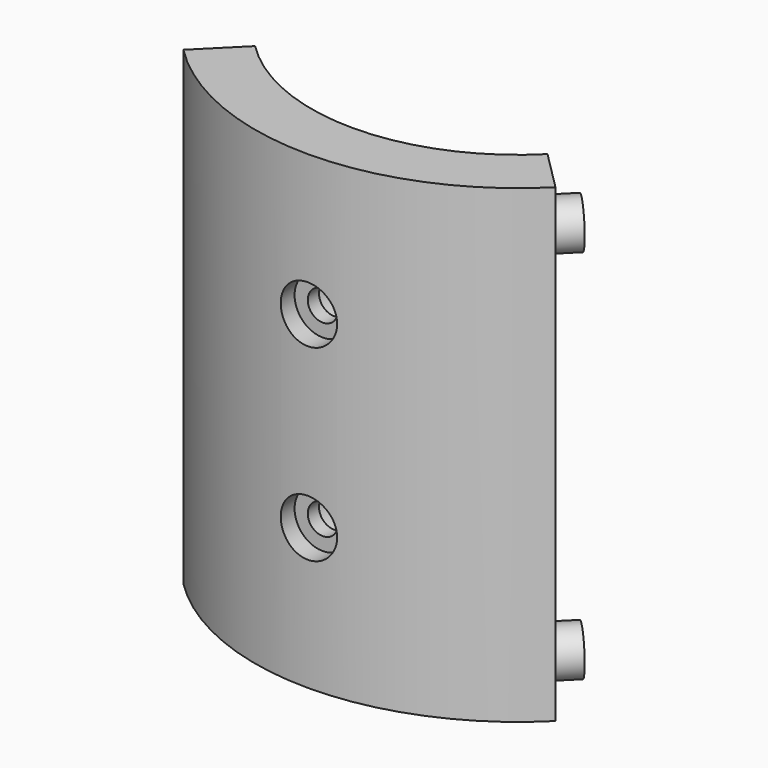
from build123d import *

# Parameters (mm, degrees)
PAD_DEPTH            = 50
SKETCH001_R          = 2.475
PAD001_DEPTH         = 2.5
SKETCH002_R          = 2.475
PAD002_DEPTH         = 2.5
SKETCH003_R          = 3
POCKET_DEPTH         = 24.5
SKETCH004_R          = 1.6
POCKET001_DEPTH      = 0.001
POCKET001_DEPTH_BACK = 28.001
POCKET002_START      = 26
SKETCH005_R          = 3
POCKET002_DEPTH      = 42


with BuildPart() as part:
    # Sketch → Pad (new body)
    with BuildSketch(Plane.XY):
        with BuildLine():
            ThreePointArc((-15.556349, -15.556349), (0, -22), (15.556349, -15.556349))
            Line((15.556349, -15.556349), (19.79899, -19.79899))
            ThreePointArc((-19.79899, -19.79899), (0, -28), (19.79899, -19.79899))
            Line((-19.79899, -19.79899), (-15.556349, -15.556349))
        make_face()
    extrude(amount=PAD_DEPTH)

    # Sketch001 → Pad001 (join)
    with BuildSketch(Plane(origin=(0, 0, 0), x_dir=(-0.707107, -0.707107, 0), z_dir=(-0.707107, 0.707107, 0))):
        with Locations((25, 45)):
            Circle(SKETCH001_R)
        with Locations((25, 5)):
            Circle(SKETCH001_R)
    extrude(amount=PAD001_DEPTH)

    # Sketch002 (on Face8 of Pad001) → Pad002 (join)
    with BuildSketch(Plane(origin=(0, 0, 0), x_dir=(-0.707107, 0.707107, 0), z_dir=(0.707107, 0.707107, 0))):
        with Locations((-25, 45)):
            Circle(SKETCH002_R)
        with Locations((-25, 5)):
            Circle(SKETCH002_R)
    extrude(amount=PAD002_DEPTH)

    # Sketch003 → Pocket (cut)
    with BuildSketch(Plane.XZ):
        with Locations((0, 35)):
            Circle(SKETCH003_R)
        with Locations((0, 15)):
            Circle(SKETCH003_R)
    extrude(amount=POCKET_DEPTH, mode=Mode.SUBTRACT)

    # Sketch004 → Pocket001 (cut, two sides)
    with BuildSketch(Plane.XZ) as pocket001_sk:
        with Locations((0, 35)):
            Circle(SKETCH004_R)
        with Locations((0, 15)):
            Circle(SKETCH004_R)
    extrude(amount=-POCKET001_DEPTH, mode=Mode.SUBTRACT)
    extrude(pocket001_sk.sketch, amount=POCKET001_DEPTH_BACK, mode=Mode.SUBTRACT)

    # Sketch005 → Pocket002 (cut)
    with BuildSketch(Plane.XZ.offset(POCKET002_START)):
        with Locations((0, 35)):
            Circle(SKETCH005_R)
        with Locations((0, 15)):
            Circle(SKETCH005_R)
    extrude(amount=POCKET002_DEPTH, mode=Mode.SUBTRACT)


solid = part.part
